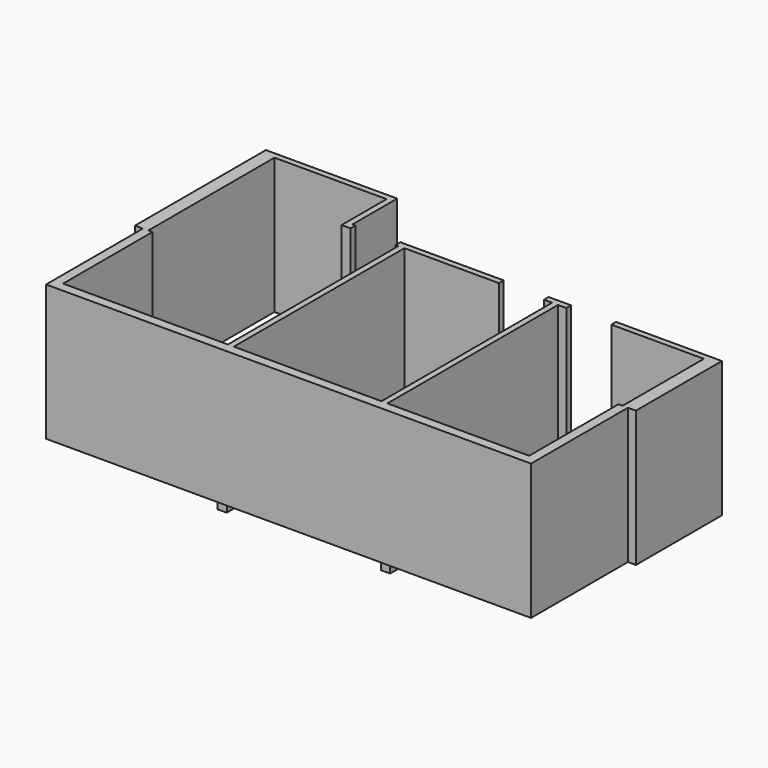
from build123d import *

# Parameters (mm, degrees)
F1_DEPTH = 2300
F2_W     = 155
F2_H     = 4250
F3_DEPTH = 152


with BuildPart() as f1:
    # F0 (on Top) → F1 (new body)
    with BuildSketch(Plane.XY):
        Polygon((2790, -1222.531233), (0, -1222.531233), (0, 666.856766), (-70, 666.856766), (-70, 3337.468767), (1828, 3337.468767), (1828, 2387.468767), (1978, 2387.468767), (1978, 2437.468767), (1978, 2487.468767), (1928, 2487.468767), (1928, 3437.468767), (-295, 3437.468767), (-295, 666.856766), (-160, 666.856766), (-160, -1382.531233), (8050, -1382.531233), (8050, 666.856766), (8185, 666.856766), (8185, 2387.468767), (8185, 2487.468767), (7960, 2487.468767), (6392, 2487.468767), (6392, 2437.468767), (6392, 2387.468767), (7960, 2387.468767), (7960, 666.856766), (7890, 666.856766), (7890, -1222.531233), (5490, -1222.531233), (5490, 2387.468767), (5630, 2387.468767), (5630, 2437.468767), (5630, 2487.468767), (5252, 2487.468767), (5252, 2437.468767), (5252, 2387.468767), (5390, 2387.468767), (5390, -1222.531233), (2890, -1222.531233), (2890, 2387.468767), (4490, 2387.468767), (4490, 2437.468767), (4490, 2487.468767), (2740, 2487.468767), (2740, 2437.468767), (2740, 2387.468767), (2790, 2387.468767), align=None)
    extrude(amount=F1_DEPTH)

    # F2 (on Top) → F3 (join)
    with BuildSketch(Plane.XY):
        with Locations((2767.5, 809.843659)):
            Rectangle(F2_W, F2_H)
        with Locations((5542.5, 799.137712)):
            Rectangle(F2_W, F2_H)
    extrude(amount=-F3_DEPTH)


solid = f1.part
